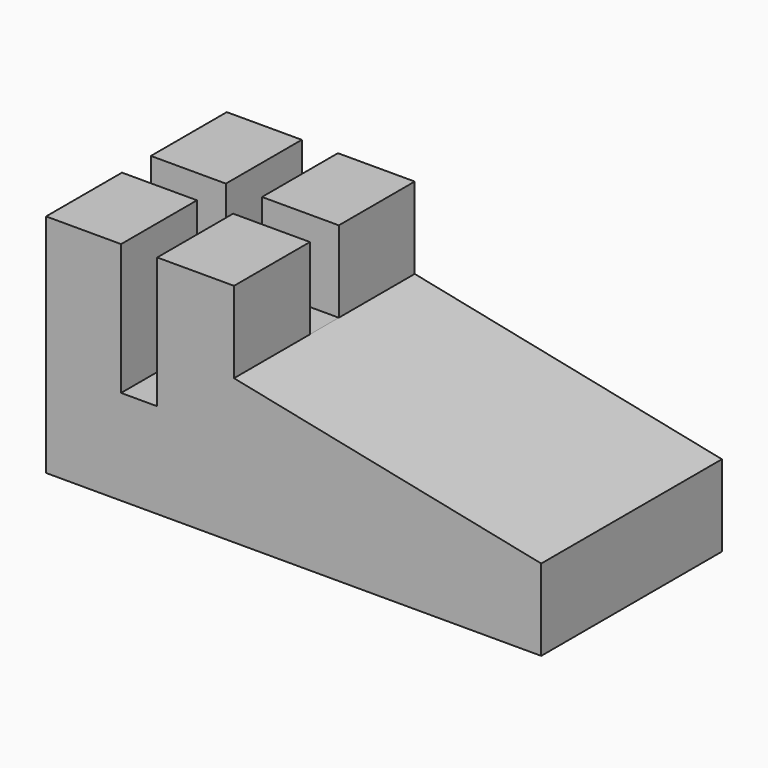
from build123d import *

# Parameters (mm, degrees)
F1_DEPTH       = 6.25
F2_W           = 2
F2_H           = 4.5
F3_DEPTH       = 10.401
F5_D           = 2
F5_DEPTH       = 38
F5_CBORE_D     = 3.5
F5_CBORE_DEPTH = 3
F5_TIP         = 0.600860619


with BuildPart() as f1:
    # F0 (on Front) → F1 (new body, symmetric)
    with BuildSketch(Plane.XZ):
        Polygon((17, -3.5), (0, 0), (0, 4.5), (-4.25, 4.5), (-4.25, -2.75), (-6.25, -2.75), (-6.25, 4.5), (-10.4, 4.5), (-10.4, -8), (17, -8), align=None)
    extrude(amount=F1_DEPTH, both=True)

    # F2 (on Right) → F3 (cut, through all)
    with BuildSketch(Plane.YZ):
        with Locations((0, 2.25)):
            Rectangle(F2_W, F2_H)
    extrude(amount=-F3_DEPTH, mode=Mode.SUBTRACT)

    # F5
    with Locations(Plane(origin=(0, 0, -8), x_dir=(1, 0, 0), z_dir=(0, 0, -1))):
        with Locations((-5.15, 0)):
            CounterBoreHole(F5_D / 2, F5_CBORE_D / 2, F5_CBORE_DEPTH, depth=F5_DEPTH)
            with Locations((0, 0, -(F5_DEPTH + F5_TIP / 2))):  # 118° drill point
                Cone(0, F5_D / 2, F5_TIP, mode=Mode.SUBTRACT)


solid = f1.part
